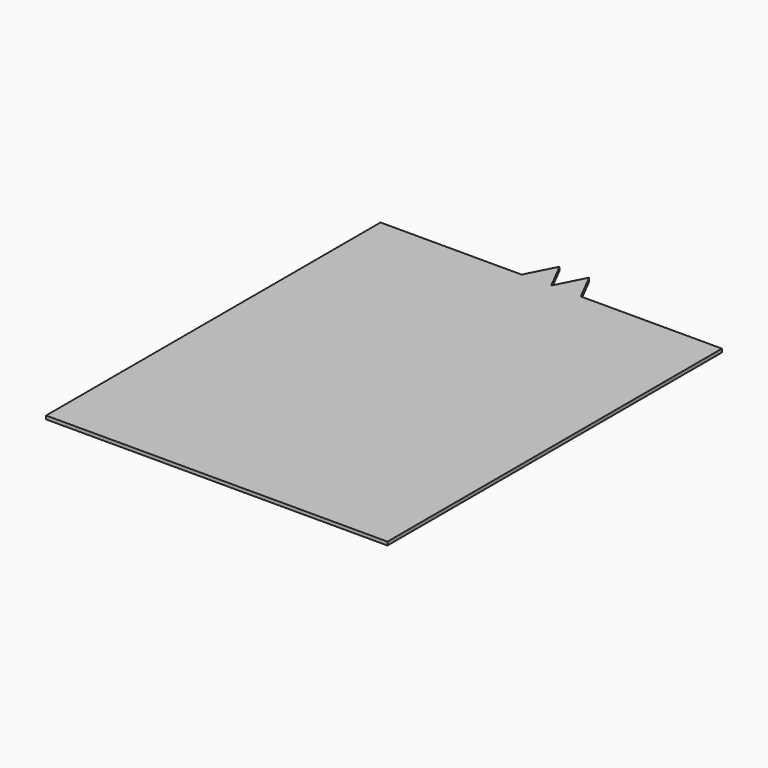
from build123d import *

# Parameters (mm, degrees)
F0_W     = 99
F0_H     = 150
F1_DEPTH = 1
F4_DEPTH = 25


with BuildPart() as f1:
    # F0 (on Top) → F1 (new body)
    with BuildSketch(Plane.XY):
        Rectangle(F0_W, F0_H)
    extrude(amount=F1_DEPTH)

    # F3 (on face) → F4 (cut)
    with BuildSketch(Plane.XY.offset(1)):
        Polygon((-62.001765, 46.220153), (-46.321515, 46.220153), (-8.583423, 46.220153), (-4.291712, 54.622024), (0, 46.220153), (4.291712, 54.622024), (8.583423, 46.220153), (46.321515, 46.220153), (54.136954, 46.220153), (59.024267, 77.810913), (-51.67358, 77.810913), align=None)
    extrude(amount=-F4_DEPTH, mode=Mode.SUBTRACT)


solid = f1.part
